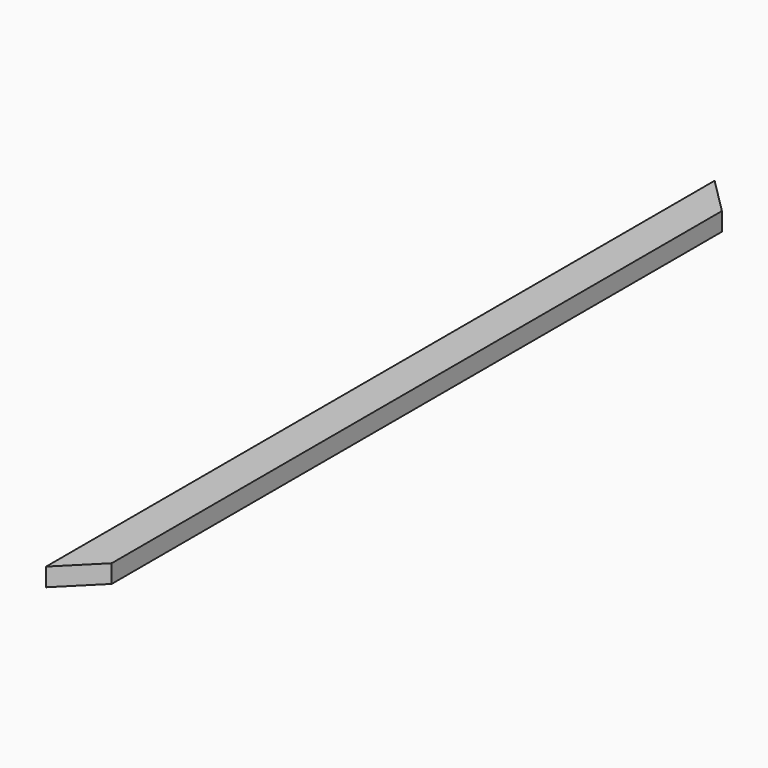
from build123d import *

# Parameters (mm, degrees)
F0_W     = 38.1
F0_H     = 19.05
F1_DEPTH = 873.125
F3_DEPTH = 25.4


with BuildPart() as f1:
    # F0 (on Front) → F1 (new body)
    with BuildSketch(Plane.XZ):
        with Locations((6.227258, -1.307048)):
            Rectangle(F0_W, F0_H)
    extrude(amount=F1_DEPTH)

    # F2 (on face) → F3 (cut)
    with BuildSketch(Plane.XY.offset(8.217952)):
        Polygon((25.277258, -835.025), (-12.822742, -873.125), (25.277258, -873.125), align=None)
        Polygon((25.277258, -38.1), (25.277258, 0), (-12.822742, 0), align=None)
    extrude(amount=-F3_DEPTH, mode=Mode.SUBTRACT)


solid = f1.part
